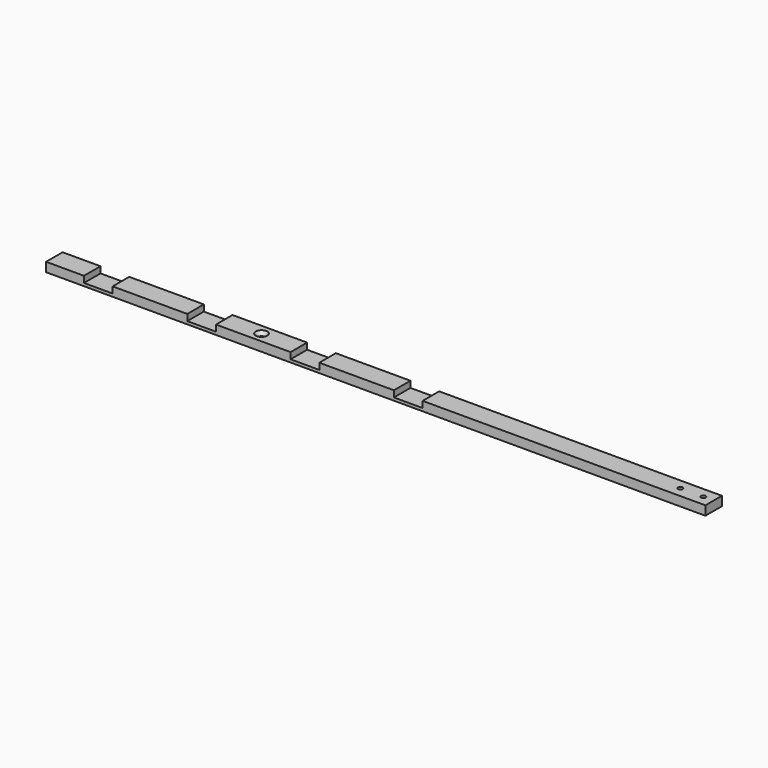
from build123d import *

# Parameters (mm, degrees)
SKETCH044_W             = 574.323184
SKETCH044_H             = 18
PAD022_DEPTH            = 8
SKETCH049_R             = 2
POCKET031_DEPTH         = 8.001
CHAMFER017_SIZE         = 3
SKETCH050_W             = 25
SKETCH050_H             = 18
POCKET032_DEPTH         = 5.5
SKETCH070_R             = 2
POCKET045_DEPTH         = 8.001
CHAMFER029_SIZE         = 3
BODY016_PLACEMENT_ANGLE = 180


with BuildPart() as part:
    # Sketch044 → Pad022 (new body)
    with BuildSketch(Plane.XY):
        with Locations((57.838408, -99)):
            Rectangle(SKETCH044_W, SKETCH044_H)
    extrude(amount=PAD022_DEPTH)

    # Sketch049 (on Face6 of Pad022) → Pocket031 (cut, through all)
    with BuildSketch(Plane.XY.offset(8)):
        with Locations((316, -99)):
            Circle(SKETCH049_R)
        with Locations((336, -99)):
            Circle(SKETCH049_R)
    extrude(amount=-POCKET031_DEPTH, mode=Mode.SUBTRACT)

    # Chamfer017
    chamfer017_edges = [part.edges().sort_by_distance(p)[0] for p in [
        (334, -99, 8),
        (314, -99, 8),
    ]]
    chamfer(chamfer017_edges, length=CHAMFER017_SIZE)

    # Sketch050 (on Face9 of Chamfer017) → Pocket032 (cut)
    with BuildSketch(Plane(origin=(0, 0, 0), x_dir=(1, 0, 0), z_dir=(0, 0, -1))):
        with Locations((-183.823184, 99)):
            Rectangle(SKETCH050_W, SKETCH050_H)
        with Locations((-93.823184, 99)):
            Rectangle(SKETCH050_W, SKETCH050_H)
        with Locations((-3.823184, 99)):
            Rectangle(SKETCH050_W, SKETCH050_H)
        with Locations((86.176816, 99)):
            Rectangle(SKETCH050_W, SKETCH050_H)
    extrude(amount=-POCKET032_DEPTH, mode=Mode.SUBTRACT)

    # Sketch070 (on Face1 of Pocket032) → Pocket045 (cut, through all)
    with BuildSketch(Plane.XY.offset(8)):
        with Locations((-48.823184, -99)):
            Circle(SKETCH070_R)
    extrude(amount=-POCKET045_DEPTH, mode=Mode.SUBTRACT)

    # Chamfer029
    chamfer029_edges = [part.edges().sort_by_distance(p)[0] for p in [
        (-50.823184, -99, 0),
    ]]
    chamfer(chamfer029_edges, length=CHAMFER029_SIZE)


with BuildPart() as part_1:
    # Body016 placement: moved
    add(part.part.moved(Location((0, 0, 15.5))).rotate(Axis((0, 0, 15.5), (1, 0, 0)), BODY016_PLACEMENT_ANGLE))


solid = part_1.part
